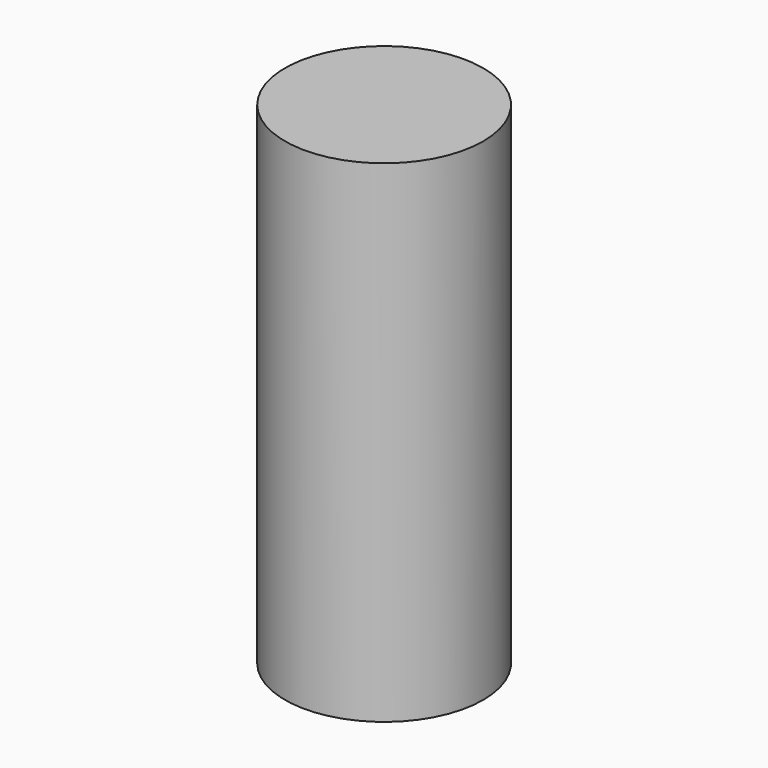
from build123d import *

# Parameters (mm, degrees)
CYLINDER_R     = 3.0226
CYLINDER_DEPTH = 15


with BuildPart() as part:
    # Cylinder → Cylinder (new body)
    with BuildSketch(Plane.XY.offset(-2.5)):
        Circle(CYLINDER_R)
    extrude(amount=CYLINDER_DEPTH)


solid = part.part
